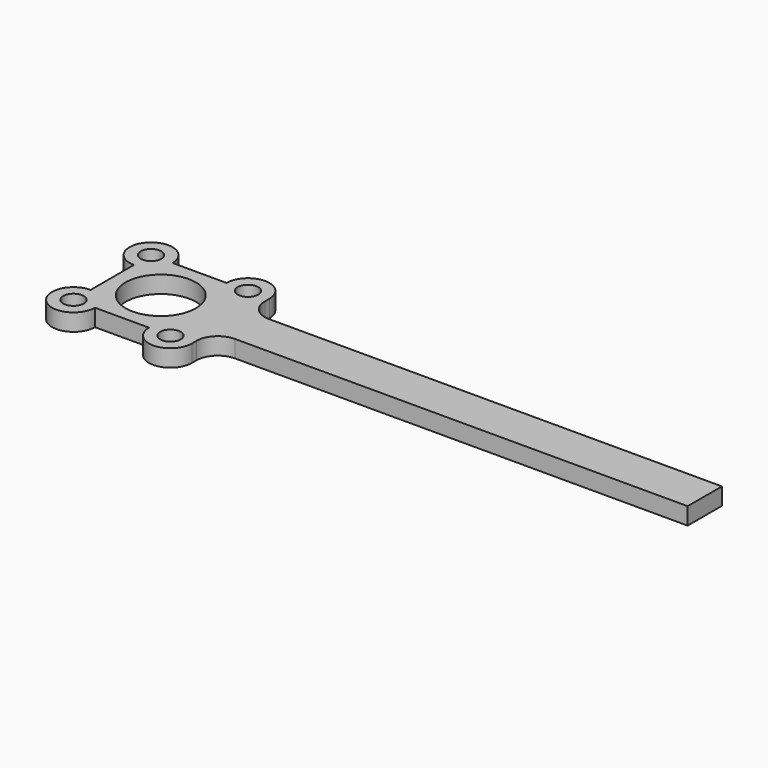
from build123d import *

# Parameters (mm, degrees)
F1_R     = 1.2
F1_R_2   = 4.1
F2_DEPTH = 2


with BuildPart() as f2:
    # F1 (on Top) → F2 (new body)
    with BuildSketch(Plane.XY):
        with BuildLine():
            Line((3.156854, 5.656854), (-3.156854, 5.656854))
            ThreePointArc((-3.156854, 5.656854), (-7.424621, 7.424621), (-5.656854, 3.156854))
            Line((-5.656854, 3.156854), (-5.656854, -3.156854))
            ThreePointArc((-5.656854, -3.156854), (-7.424621, -7.424621), (-3.156854, -5.656854))
            Line((-3.156854, -5.656854), (3.156854, -5.656854))
            ThreePointArc((3.156854, -5.656854), (5.656854, -8.156854), (8.156854, -5.656854))
            Line((8.156854, -5.656854), (8.156854, -5))
            ThreePointArc((8.156854, -5), (8.889087, -3.232233), (10.656854, -2.5))
            Line((10.656854, -2.5), (63.5, -2.5))
            Line((63.5, -2.5), (63.5, 2.5))
            Line((63.5, 2.5), (10.656854, 2.5))
            ThreePointArc((10.656854, 2.5), (8.889087, 3.232233), (8.156854, 5))
            Line((8.156854, 5), (8.156854, 5.656854))
            ThreePointArc((8.156854, 5.656854), (5.656854, 8.156854), (3.156854, 5.656854))
        make_face()
        with Locations((-5.656854, -5.656854)):
            Circle(F1_R, mode=Mode.SUBTRACT)
        with Locations((5.656854, -5.656854)):
            Circle(F1_R, mode=Mode.SUBTRACT)
        Circle(F1_R_2, mode=Mode.SUBTRACT)
        with Locations((-5.656854, 5.656854)):
            Circle(F1_R, mode=Mode.SUBTRACT)
        with Locations((5.656854, 5.656854)):
            Circle(F1_R, mode=Mode.SUBTRACT)
    extrude(amount=-F2_DEPTH)


solid = f2.part
